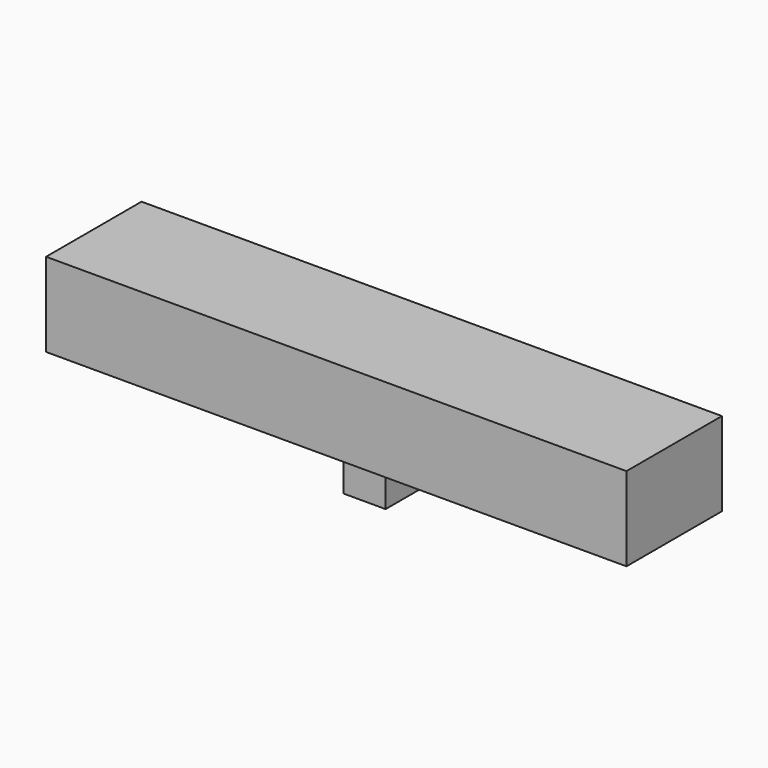
from build123d import *

# Parameters (mm, degrees)
BOX_W     = 180
BOX_H     = 37
BOX_DEPTH = 26
SKETCH_W  = 13
SKETCH_H  = 15
PAD_DEPTH = 16


with BuildPart() as part:
    # Box → Box (new body)
    with BuildSketch(Plane.XY):
        with Locations((90, 18.5)):
            Rectangle(BOX_W, BOX_H)
    extrude(amount=BOX_DEPTH)

    # Sketch → Pad (new body)
    with BuildSketch(Plane(origin=(0, 0, 0), x_dir=(1, 0, 0), z_dir=(0, 0, -1))):
        with Locations((90, -18.5)):
            Rectangle(SKETCH_W, SKETCH_H)
    extrude(amount=PAD_DEPTH)


solid = part.part
